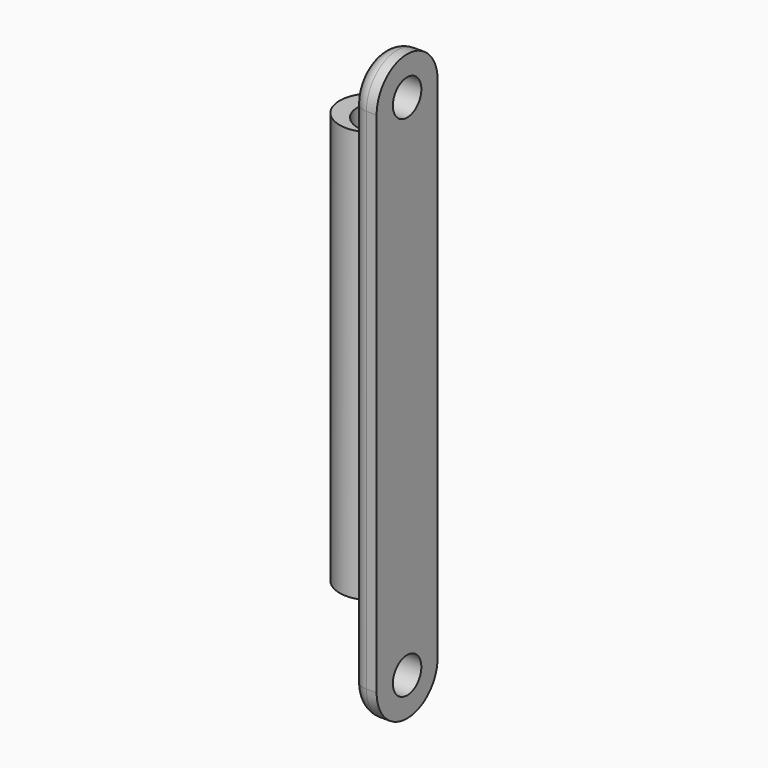
from build123d import *

# Parameters (mm, degrees)
SKETCH002_R                = 3.5
EXTRUDE002_DEPTH           = 5
FILLET002_R                = 3
EXTRUDE025_DEPTH           = 81
EXTRUDE025_ROLL_ANGLE      = -90
EXTRUDE025_PLACEMENT_ANGLE = 180


with BuildPart() as obj1:
    # Sketch002 → Extrude002 (new body)
    with BuildSketch(Plane(origin=(0, 0, 0), x_dir=(0, -1, 0), z_dir=(-1, 0, 0))):
        with BuildLine():
            ThreePointArc((-63.107885, 173.903324), (-70.607885, 181.403324), (-78.107885, 173.903324))
            Line((-78.107885, 173.903324), (-78.107885, 73.903324))
            ThreePointArc((-78.107885, 73.903324), (-70.607885, 66.403324), (-63.107885, 73.903324))
            Line((-63.107885, 173.903324), (-63.107885, 73.903324))
        make_face()
        with Locations((-70.607885, 73.903324)):
            Circle(SKETCH002_R, mode=Mode.SUBTRACT)
        with Locations((-70.607885, 173.903324)):
            Circle(SKETCH002_R, mode=Mode.SUBTRACT)
    extrude(amount=EXTRUDE002_DEPTH)


with BuildPart() as obj1_1:
    # Extrude002 placement: moved
    add(obj1.part.moved(Location((48, 0, 0))))

    # Fillet002
    fillet002_edges = [obj1_1.edges().sort_by_distance(p)[0] for p in [
        (43, 78.107885, 123.903324),
    ]]
    fillet(fillet002_edges, radius=FILLET002_R)


with BuildPart() as fusion029:
    # Sketch026 → Extrude025 (new body)
    with BuildSketch(Plane.XZ):
        with BuildLine():
            ThreePointArc((-3.873562, -5.219724), (6.5, 0), (-3.873562, 5.219724))
            ThreePointArc((-3.873562, -5.219724), (2.950526, 0), (-3.873562, 5.219724))
        make_face()
    extrude(amount=EXTRUDE025_DEPTH)


with BuildPart() as fusion029_1:
    # Extrude025 roll: moved
    add(fusion029.part.rotate(Axis((0, 0, 0), (1, 0, 0)), EXTRUDE025_ROLL_ANGLE))


with BuildPart() as fusion029_2:
    # Extrude025 placement: moved
    add(fusion029_1.part.moved(Location((41.2, 70.65, 88))).rotate(Axis((41.2, 70.65, 88), (0, 0, 1)), EXTRUDE025_PLACEMENT_ANGLE))

    # Fusion029: union obj1
    add(obj1_1.part)


with BuildPart() as fusion029_3:
    # Fusion029 placement: moved
    add(fusion029_2.part.moved(Location((-4, 0, 0))))


solid = fusion029_3.part
